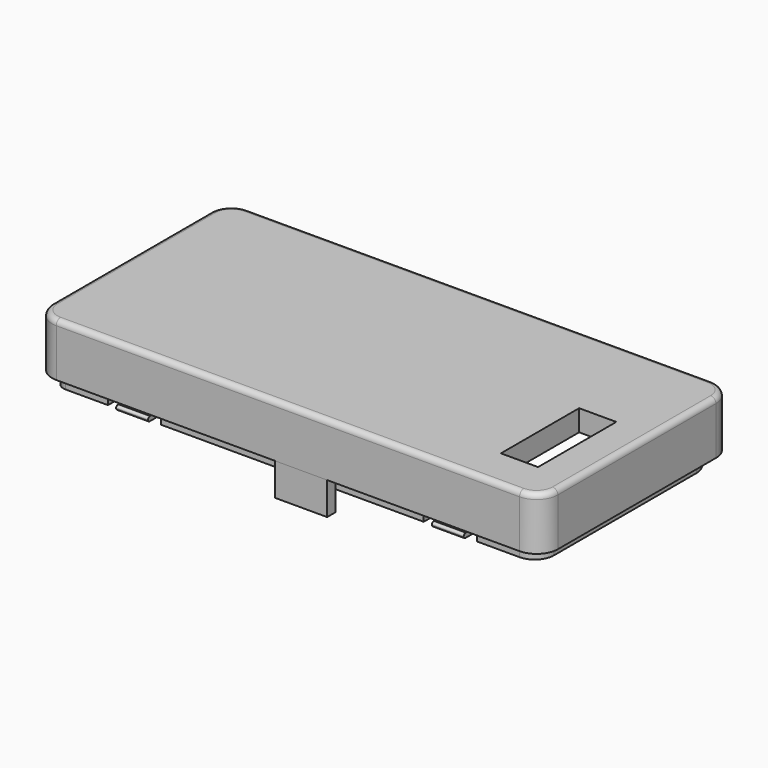
from build123d import *

# Parameters (mm, degrees)
PAD_DEPTH       = 2
PAD001_DEPTH    = 3
PAD002_DEPTH    = 1.2
SKETCH004_W     = 8.8
SKETCH004_H     = 3
POCKET_DEPTH    = 2
SKETCH005_W     = 3.5
SKETCH005_H     = 9.2
POCKET001_DEPTH = 2
SKETCH006_W     = 10
SKETCH006_H     = 5
POCKET002_DEPTH = 2
CHAMFER_SIZE    = 0.5
SKETCH007_W     = 3
SKETCH007_H     = 0.4
PAD003_DEPTH    = 0.3
SKETCH008_W     = 1
SKETCH008_H     = 1.2
POCKET003_DEPTH = 1
FILLET_R        = 0.199
SKETCH009_W     = 3
SKETCH009_H     = 0.4
PAD004_DEPTH    = 0.3
FILLET001_R     = 0.19
SKETCH010_W     = 1
SKETCH010_H     = 1.2
POCKET004_DEPTH = 1
FILLET002_R     = 0.5
SKETCH011_W     = 4.9
SKETCH011_H     = 1
PAD005_DEPTH    = 3.1


with BuildPart() as part:
    # Sketch → Pad (new body)
    with BuildSketch(Plane.XY):
        with BuildLine():
            Line((-21.8, -11.3), (21.8, -11.3))
            ThreePointArc((21.8, -11.3), (23.214214, -10.714214), (23.8, -9.3))
            Line((23.8, -9.3), (23.8, 9.3))
            ThreePointArc((23.8, 9.3), (23.214214, 10.714214), (21.8, 11.3))
            Line((21.8, 11.3), (-21.8, 11.3))
            ThreePointArc((-21.8, 11.3), (-23.214214, 10.714214), (-23.8, 9.3))
            Line((-23.8, 9.3), (-23.8, -9.3))
            ThreePointArc((-23.8, -9.3), (-23.214214, -10.714214), (-21.8, -11.3))
        make_face()
    extrude(amount=PAD_DEPTH)

    # Sketch002 (on Face9 of Pad) → Pad001 (join)
    with BuildSketch(Plane(origin=(0, 0, 0), x_dir=(1, 0, 0), z_dir=(0, 0, -1))):
        with BuildLine():
            Line((-23.8, 9.3), (-23.8, -9.3))
            ThreePointArc((-23.8, -9.3), (-23.214214, -10.714214), (-21.8, -11.3))
            Line((-21.8, -11.3), (21.8, -11.3))
            ThreePointArc((21.8, -11.3), (23.214214, -10.714214), (23.8, -9.3))
            Line((23.8, -9.3), (23.8, 9.3))
            ThreePointArc((23.8, 9.3), (23.214214, 10.714214), (21.8, 11.3))
            Line((21.8, 11.3), (-21.8, 11.3))
            ThreePointArc((-21.8, 11.3), (-23.214214, 10.714214), (-23.8, 9.3))
        make_face()
        with BuildLine():
            Line((-21.8, 8.3), (-21.8, -8.3))
            ThreePointArc((-21.8, -8.3), (-21.507107, -9.007107), (-20.8, -9.3))
            Line((-20.8, -9.3), (20.8, -9.3))
            ThreePointArc((20.8, -9.3), (21.507107, -9.007107), (21.8, -8.3))
            Line((21.8, -8.3), (21.8, 8.3))
            ThreePointArc((21.8, 8.3), (21.507107, 9.007107), (20.8, 9.3))
            Line((20.8, 9.3), (-20.8, 9.3))
            ThreePointArc((-20.8, 9.3), (-21.507107, 9.007107), (-21.8, 8.3))
        make_face(mode=Mode.SUBTRACT)
    extrude(amount=PAD001_DEPTH)

    # Sketch003 (on Face1 of Pad001) → Pad002 (join)
    with BuildSketch(Plane(origin=(0, 0, -3), x_dir=(1, 0, 0), z_dir=(0, 0, -1))):
        with BuildLine():
            Line((-22.75, 9.273817), (-22.75, -8.811393))
            ThreePointArc((-22.75, -8.811393), (-22.328642, -9.828642), (-21.311393, -10.25))
            Line((-21.311393, -10.25), (20.79762, -10.25))
            ThreePointArc((20.79762, -10.25), (22.178161, -9.678161), (22.75, -8.29762))
            Line((22.75, -8.29762), (22.75, 8.43735))
            ThreePointArc((22.75, 8.43735), (22.219087, 9.719087), (20.93735, 10.25))
            Line((20.93735, 10.25), (-21.773817, 10.25))
            ThreePointArc((-21.773817, 10.25), (-22.464083, 9.964083), (-22.75, 9.273817))
        make_face()
        with BuildLine():
            Line((-21.8, 8.3), (-21.8, -8.3))
            ThreePointArc((-21.8, -8.3), (-21.507107, -9.007107), (-20.8, -9.3))
            Line((-20.8, -9.3), (20.8, -9.3))
            ThreePointArc((20.8, -9.3), (21.507107, -9.007107), (21.8, -8.3))
            Line((21.8, -8.3), (21.8, 8.3))
            ThreePointArc((21.8, 8.3), (21.507107, 9.007107), (20.8, 9.3))
            Line((20.8, 9.3), (-20.8, 9.3))
            ThreePointArc((-20.8, 9.3), (-21.507107, 9.007107), (-21.8, 8.3))
        make_face(mode=Mode.SUBTRACT)
    extrude(amount=PAD002_DEPTH)

    # Sketch004 (on Face2 of Pad002) → Pocket (cut)
    with BuildSketch(Plane(origin=(-23.8, 0, 0), x_dir=(0, -1, 0), z_dir=(-1, 0, 0))):
        with Locations((1.797054, -2.857067)):
            Rectangle(SKETCH004_W, SKETCH004_H)
    extrude(amount=-POCKET_DEPTH, mode=Mode.SUBTRACT)

    # Sketch005 (on Face21 of Pocket) → Pocket001 (cut)
    with BuildSketch(Plane.XY.offset(2)):
        with Locations((18.75, -2.9)):
            Rectangle(SKETCH005_W, SKETCH005_H)
    extrude(amount=-POCKET001_DEPTH, mode=Mode.SUBTRACT)

    # Sketch006 (on Face15 of Pocket001) → Pocket002 (cut)
    with BuildSketch(Plane(origin=(0, 11.3, 0), x_dir=(-1, 0, 0), z_dir=(0, 1, 0))):
        with Locations((-16, -2.5)):
            Rectangle(SKETCH006_W, SKETCH006_H)
    extrude(amount=-POCKET002_DEPTH, mode=Mode.SUBTRACT)

    # Chamfer
    chamfer_edges = [part.edges().sort_by_distance(p)[0] for p in [
        (-23.8, 2.602946, -2.178533),
        (-23.8, -1.797054, -1.357067),
        (-23.8, -6.197054, -2.178533),
    ]]
    chamfer(chamfer_edges, length=CHAMFER_SIZE)

    # Sketch007 (on Face11 of Chamfer) → Pad003 (join)
    with BuildSketch(Plane.XZ.offset(10.25)):
        with Locations((-15.273817, -4)):
            Rectangle(SKETCH007_W, SKETCH007_H)
        with Locations((14.43735, -4)):
            Rectangle(SKETCH007_W, SKETCH007_H)
    extrude(amount=PAD003_DEPTH)

    # Sketch008 (on Face11 of Pad003) → Pocket003 (cut)
    with BuildSketch(Plane.XZ.offset(10.25)):
        with Locations((-17.273817, -3.6)):
            Rectangle(SKETCH008_W, SKETCH008_H)
        with Locations((-13.273817, -3.6)):
            Rectangle(SKETCH008_W, SKETCH008_H)
        with Locations((16.43735, -3.6)):
            Rectangle(SKETCH008_W, SKETCH008_H)
        with Locations((12.43735, -3.6)):
            Rectangle(SKETCH008_W, SKETCH008_H)
    extrude(amount=-POCKET003_DEPTH, mode=Mode.SUBTRACT)

    # Fillet
    fillet_edges = [part.edges().sort_by_distance(p)[0] for p in [
        (-15.273817, -10.55, -3.8),
        (-15.273817, -10.55, -4.2),
        (14.43735, -10.55, -3.8),
        (14.43735, -10.55, -4.2),
    ]]
    fillet(fillet_edges, radius=FILLET_R)

    # Sketch009 (on Face65 of Fillet) → Pad004 (join)
    with BuildSketch(Plane(origin=(0, 10.25, 0), x_dir=(-1, 0, 0), z_dir=(0, 1, 0))):
        with Locations((15.3, -4)):
            Rectangle(SKETCH009_W, SKETCH009_H)
        with Locations((-6.5, -4)):
            Rectangle(SKETCH009_W, SKETCH009_H)
    extrude(amount=PAD004_DEPTH)

    # Fillet001
    fillet001_edges = [part.edges().sort_by_distance(p)[0] for p in [
        (6.5, 10.55, -3.8),
        (6.5, 10.55, -4.2),
        (-15.3, 10.55, -3.8),
        (-15.3, 10.55, -4.2),
    ]]
    fillet(fillet001_edges, radius=FILLET001_R)

    # Sketch010 (on Face4 of Fillet001) → Pocket004 (cut)
    with BuildSketch(Plane(origin=(0, 10.25, 0), x_dir=(-1, 0, 0), z_dir=(0, 1, 0))):
        with Locations((-8.5, -3.6)):
            Rectangle(SKETCH010_W, SKETCH010_H)
        with Locations((-4.5, -3.6)):
            Rectangle(SKETCH010_W, SKETCH010_H)
        with Locations((13.3, -3.6)):
            Rectangle(SKETCH010_W, SKETCH010_H)
        with Locations((17.3, -3.6)):
            Rectangle(SKETCH010_W, SKETCH010_H)
    extrude(amount=-POCKET004_DEPTH, mode=Mode.SUBTRACT)

    # Fillet002
    fillet002_edges = [part.edges().sort_by_distance(p)[0] for p in [
        (23.8, 0, 2),
        (23.214214, 10.714214, 2),
        (0, 11.3, 2),
        (-23.214214, 10.714214, 2),
        (-23.8, 0, 2),
        (-23.214214, -10.714214, 2),
        (0, -11.3, 2),
        (23.214214, -10.714214, 2),
    ]]
    fillet(fillet002_edges, radius=FILLET002_R)

    # Sketch011 (on Face4 of Fillet002) → Pad005 (join)
    with BuildSketch(Plane(origin=(0, 0, -3), x_dir=(1, 0, 0), z_dir=(0, 0, -1))):
        with Locations((1.2, 10.75)):
            Rectangle(SKETCH011_W, SKETCH011_H)
    extrude(amount=PAD005_DEPTH)


solid = part.part
